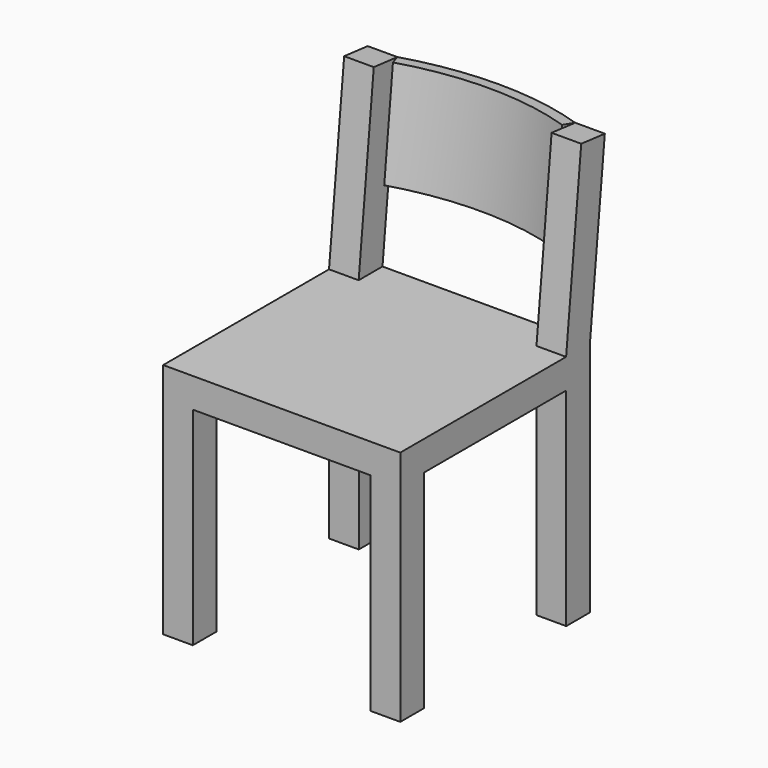
from build123d import *

# Parameters (mm, degrees)
F0_W       = 400
F0_H       = 400
F1_DEPTH   = 400
F2_W       = 300
F2_H       = 350
F3_DEPTH   = 400.001
F4_W       = 300
F4_H       = 350
F5_DEPTH   = 400.001
F9_W       = 400
F9_H       = 300
F10_DEPTH  = 50
F11_W      = 300
F11_H      = 300
F12_DEPTH  = 50
F14_DEPTH  = 5.2552117633
F12_FACE_W = 50
F12_FACE_H = 50
F17_DEPTH  = 176


with BuildPart() as f1:
    # F0 (on Top) → F1 (new body)
    with BuildSketch(Plane.XY):
        Rectangle(F0_W, F0_H)
    extrude(amount=F1_DEPTH)

    # F2 (on face) → F3 (cut, through all)
    with BuildSketch(Plane.XZ.offset(200)):
        with Locations((0, 175)):
            Rectangle(F2_W, F2_H)
    extrude(amount=-F3_DEPTH, mode=Mode.SUBTRACT)

    # F4 (on face) → F5 (cut, through all)
    with BuildSketch(Plane(origin=(-200, 0, 0), x_dir=(0, -1, 0), z_dir=(-1, 0, 0))):
        with Locations((0, 175)):
            Rectangle(F4_W, F4_H)
    extrude(amount=-F5_DEPTH, mode=Mode.SUBTRACT)



with BuildPart() as f10:
    # F9 (on line) → F10 (new body)
    with BuildSketch(Plane(origin=(0, 156.2324219098, -16.4206892285), x_dir=(-1, 0, 0), z_dir=(0, 0.9945218954, -0.1045284633))):
        with Locations((0, 568.7144508008)):
            Rectangle(F9_W, F9_H)
    extrude(amount=-F10_DEPTH)

    # F11 (on face) → F12 (cut)
    with BuildSketch(Plane(origin=(0, 106.5063271414, -11.1942660652), x_dir=(1, 0, 0), z_dir=(0, -0.9945218954, 0.1045284633))):
        with Locations((0, 568.7144508008)):
            Rectangle(F11_W, F11_H)
    extrude(amount=-F12_DEPTH, mode=Mode.SUBTRACT)


with BuildPart() as f1_1:
    add(f1.part)
    # F14 (add, through all): a face of the model
    f14_faces = [f10.part.faces().sort_by_distance(p)[0] for p in [
        (175, 175.1369526158, 402.6132115817),
    ]]

    add(f10.part)  # F14 merges F10
    extrude(f14_faces, amount=F14_DEPTH)

    # F12_face (on face) → F15 (join, up to the next surface of F1)
    with BuildSketch(Plane(origin=(175, 175.1369526158, 402.6132115817), x_dir=(1, 0, 0), z_dir=(0, -0.1045284633, -0.9945218954))):
        with Locations((-350, 0)):
            Rectangle(F12_FACE_W, F12_FACE_H)
    extrude(until=Until.NEXT)


with BuildPart() as f17:
    # F16 (on mid) → F17 (new body)
    with BuildSketch(Plane(origin=(0, 75.1261170705, 714.777257839), x_dir=(1, 0, 0), z_dir=(0, 0.1045284633, 0.9945218954))):
        with BuildLine():
            Line((142.7670273287, 138.4455713383), (150, 157.0929937666))
            ThreePointArc((150, 157.0929937666), (0, 184.3869913259), (-150, 157.0929937666))
            Line((-150, 157.0929937666), (-142.6511627324, 138.4890950968))
            ThreePointArc((-142.6511627324, 138.4890950968), (0.0618848168, 164.3869866075), (142.7670273287, 138.4455713383))
        make_face()
    extrude(amount=-F17_DEPTH)


solid = Compound([f1_1.part, f17.part])
